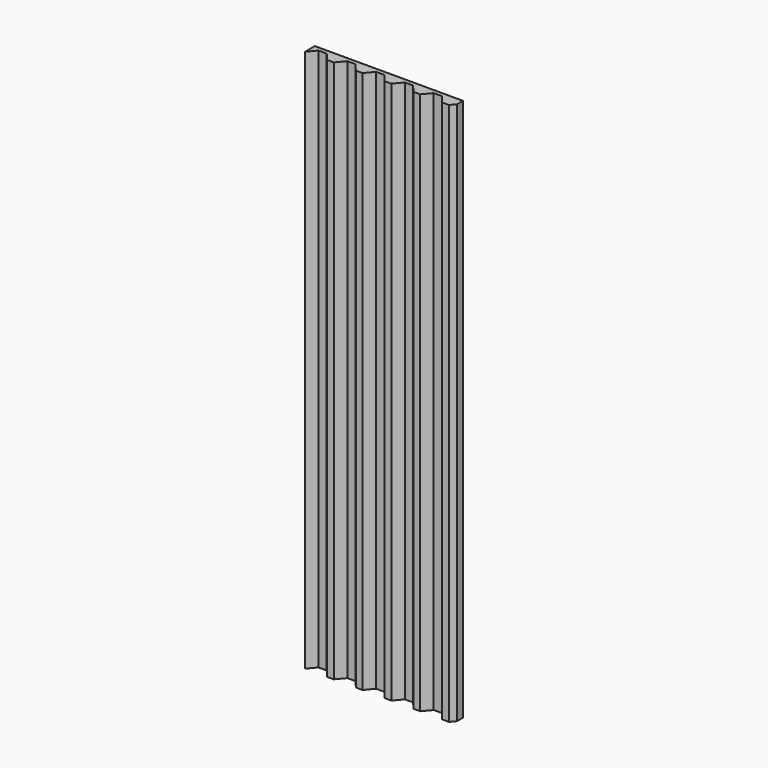
from build123d import *

# Parameters (mm, degrees)
F0_W     = 914.4
F0_H     = 101.6
F1_DEPTH = 3352.8
F3_DEPTH = 3352.801


with BuildPart() as f1:
    # F0 (on Top) → F1 (new body)
    with BuildSketch(Plane.XY):
        Rectangle(F0_W, F0_H)
    extrude(amount=F1_DEPTH)

    # F2 (on face) → F3 (cut, through all)
    with BuildSketch(Plane.XY.offset(3352.8)):
        Polygon((-414.573739, 25.4), (-457.2, -25.4), (-457.2, -50.8), (457.2, -50.8), (457.2, 4.870541), (431.8, -25.4), (390.052523, -25.4), (347.426261, 25.4), (296.626261, 25.4), (254, -25.4), (212.252523, -25.4), (169.626261, 25.4), (118.826261, 25.4), (76.2, -25.4), (34.452523, -25.4), (-8.173739, 25.4), (-58.973739, 25.4), (-101.6, -25.4), (-143.347477, -25.4), (-185.973739, 25.4), (-236.773739, 25.4), (-279.4, -25.4), (-321.147477, -25.4), (-363.773739, 25.4), align=None)
    extrude(amount=-F3_DEPTH, mode=Mode.SUBTRACT)


solid = f1.part
